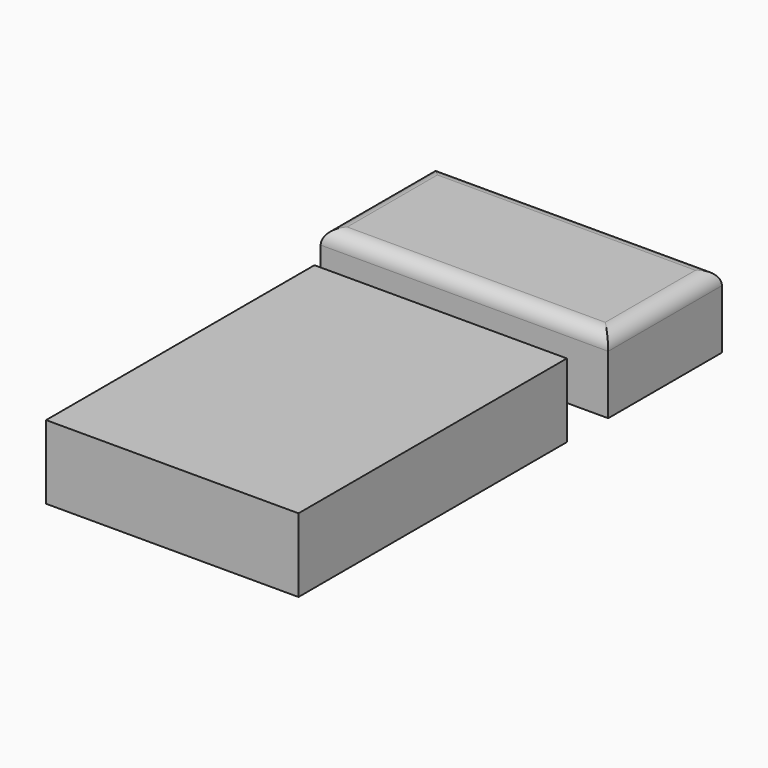
from build123d import *

# Parameters (mm, degrees)
F0_W     = 87.0151
F0_H     = 115.635
F0_W_2   = 99.111501
F0_H_2   = 49.005344
F1_DEPTH = 25.4
F2_R     = 5.08


with BuildPart() as f1:
    # F0 (on Top) → F1 (new body)
    with BuildSketch(Plane.XY):
        with Locations((43.50755, 57.8175)):
            Rectangle(F0_W, F0_H)
        with Locations((37.459349, 157.952316)):
            Rectangle(F0_W_2, F0_H_2)
    extrude(amount=F1_DEPTH)

    # F2
    f2_edges = [f1.edges().sort_by_distance(p)[0] for p in [
        (37.459349, 182.454988, 25.4),
        (-12.096401, 157.952316, 25.4),
        (37.459349, 133.449644, 25.4),
        (87.0151, 157.952316, 25.4),
    ]]
    fillet(f2_edges, radius=F2_R)


solid = f1.part
